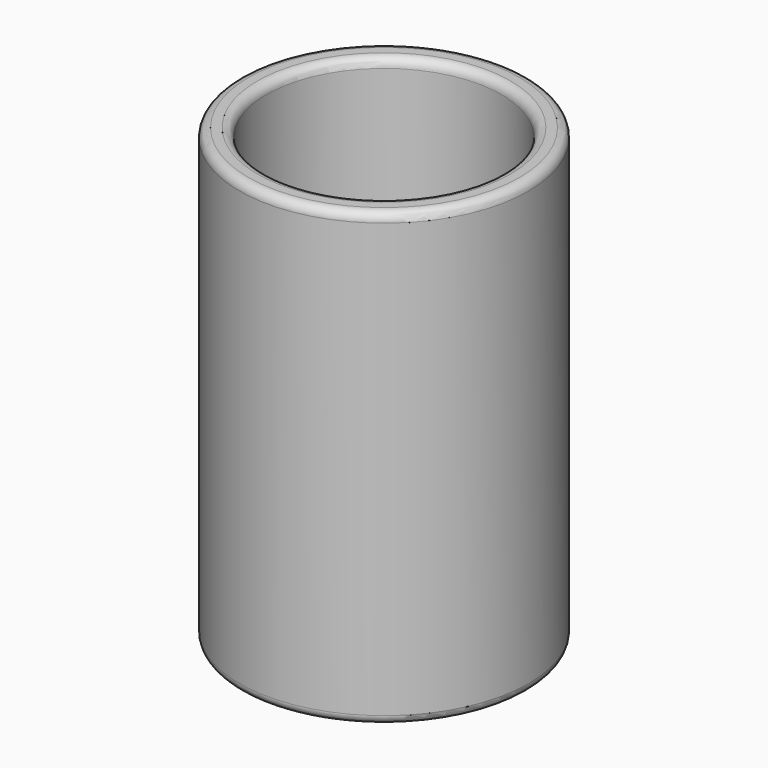
from build123d import *

# Parameters (mm, degrees)
CYLINDER001_R     = 13
CYLINDER001_DEPTH = 120
CYLINDER_R        = 16
CYLINDER_DEPTH    = 50
FILLET_R          = 1


with BuildPart() as obj1:
    # Cylinder001 → Cylinder001 (new body)
    with BuildSketch(Plane.XY.offset(-60)):
        Circle(CYLINDER001_R)
    extrude(amount=CYLINDER001_DEPTH)


with BuildPart() as fillet_body:
    # Cylinder → Cylinder (new body)
    with BuildSketch(Plane.XY.offset(-60)):
        Circle(CYLINDER_R)
    extrude(amount=CYLINDER_DEPTH)

    # Cut: cut obj1
    add(obj1.part, mode=Mode.SUBTRACT)

    # Fillet
    fillet_edges = [fillet_body.edges().sort_by_distance(p)[0] for p in [
        (-16, 0, -10),
        (-16, 0, -60),
        (-13, 0, -10),
        (-13, 0, -60),
    ]]
    fillet(fillet_edges, radius=FILLET_R)


solid = fillet_body.part
